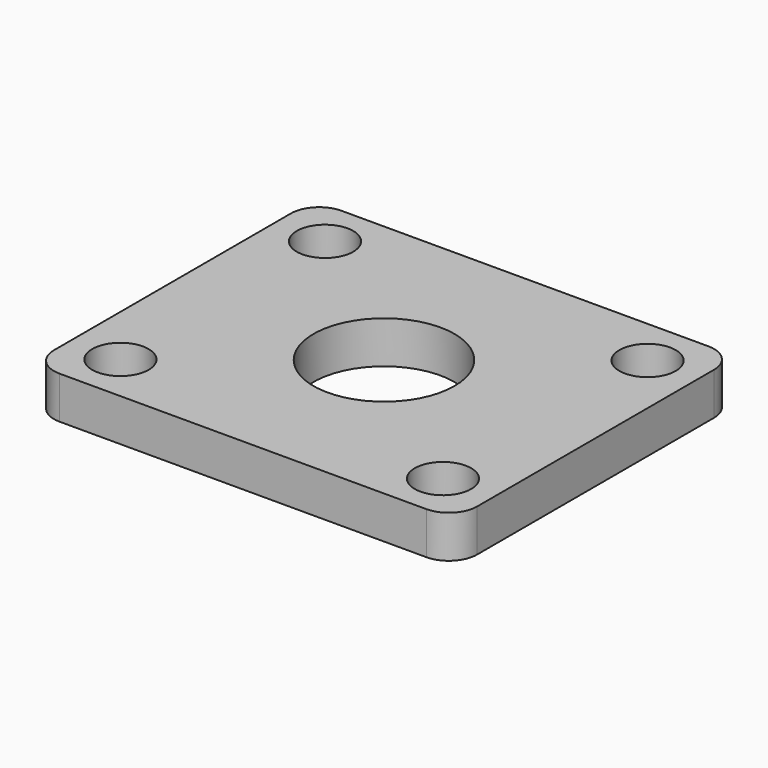
from build123d import *

# Parameters (mm, degrees)
F0_W     = 30
F0_H     = 25
F1_DEPTH = 3
F2_R     = 2
F3_R     = 5
F4_DEPTH = 3
F5_R     = 2
F6_DEPTH = 3


with BuildPart() as f1:
    # F0 (on Top) → F1 (new body)
    with BuildSketch(Plane.XY):
        Rectangle(F0_W, F0_H)
    extrude(amount=F1_DEPTH)

    # F2
    f2_edges = [f1.edges().sort_by_distance(p)[0] for p in [
        (15, 12.5, 1.5),
        (-15, 12.5, 1.5),
        (-15, -12.5, 1.5),
        (15, -12.5, 1.5),
    ]]
    fillet(f2_edges, radius=F2_R)

    # F3 (on face) → F4 (cut)
    with BuildSketch(Plane.XY.offset(3)):
        Circle(F3_R)
    extrude(amount=-F4_DEPTH, mode=Mode.SUBTRACT)

    # F5 (on face) → F6 (cut)
    with BuildSketch(Plane.XY.offset(3)):
        with Locations((-11.434802, 9.066023)):
            Circle(F5_R)
        with Locations((11.434802, 9.066023)):
            Circle(F5_R)
        with Locations((-11.434802, -9.066023)):
            Circle(F5_R)
        with Locations((11.434802, -9.066023)):
            Circle(F5_R)
    extrude(amount=-F6_DEPTH, mode=Mode.SUBTRACT)


solid = f1.part
